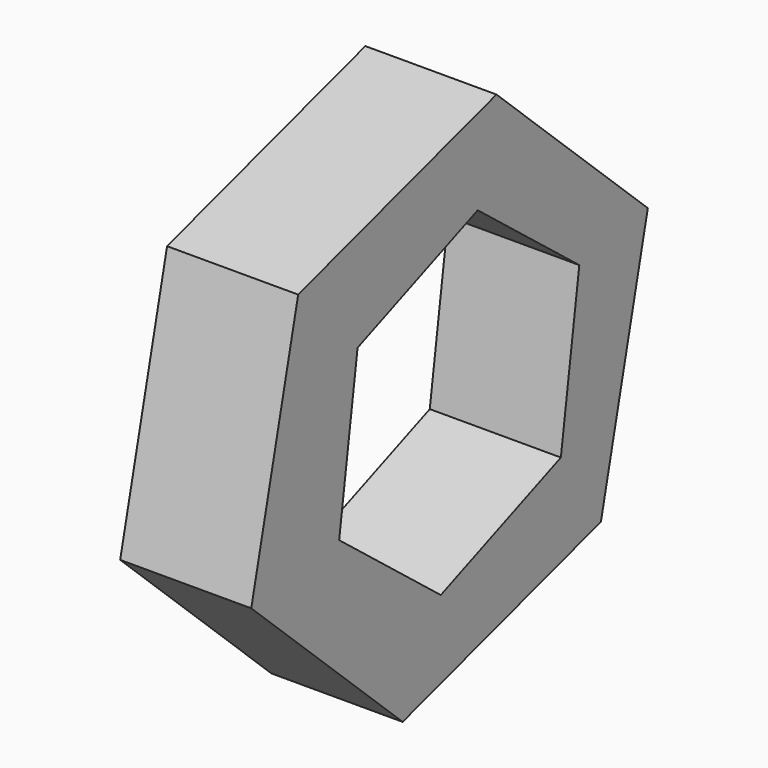
from build123d import *

# Parameters (mm, degrees)
F1_DEPTH = 25.4


with BuildPart() as f1:
    # F0 (on Right) → F1 (new body)
    with BuildSketch(Plane.YZ):
        Polygon((-22.272806, 19.369671), (-36.661609, 34.282022), (-48.019906, -14.608874), (-26.739582, -11.63299), align=None)
        Polygon((11.358297, 48.890896), (-36.661609, 34.282022), (-22.272806, 19.369671), (6.809673, 31.002661), align=None)
        Polygon((48.019906, 14.608874), (11.358297, 48.890896), (6.809673, 31.002661), (31.425378, 11.63299), align=None)
        Polygon((36.661609, -34.282022), (48.019906, 14.608874), (31.425378, 11.63299), (26.958602, -19.369671), align=None)
        Polygon((-2.123877, -31.002661), (-11.358297, -48.890896), (36.661609, -34.282022), (26.958602, -19.369671), align=None)
        Polygon((-26.739582, -11.63299), (-48.019906, -14.608874), (-11.358297, -48.890896), (-2.123877, -31.002661), align=None)
    extrude(amount=F1_DEPTH)


solid = f1.part
